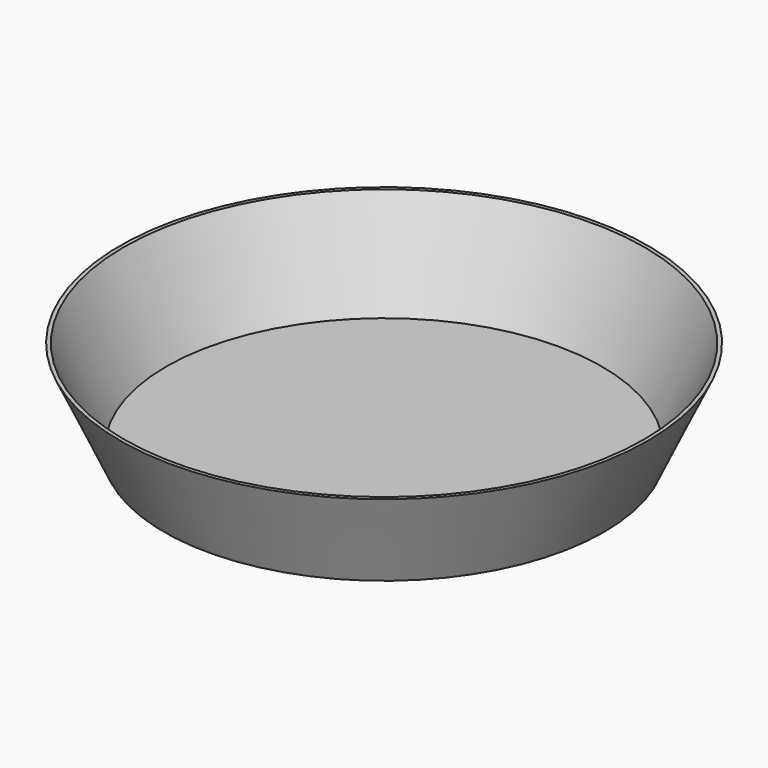
from build123d import *


with BuildPart() as part:
    # Sketch → Revolution (revolve)
    with BuildSketch(Plane.XZ):
        Polygon((0, 0), (65, 0), (78, 28), (76.897475, 28), (64.361761, 1), (0, 1), align=None)
    revolve(axis=Axis((0, 0, 0), (0, 0, 1)))


solid = part.part
